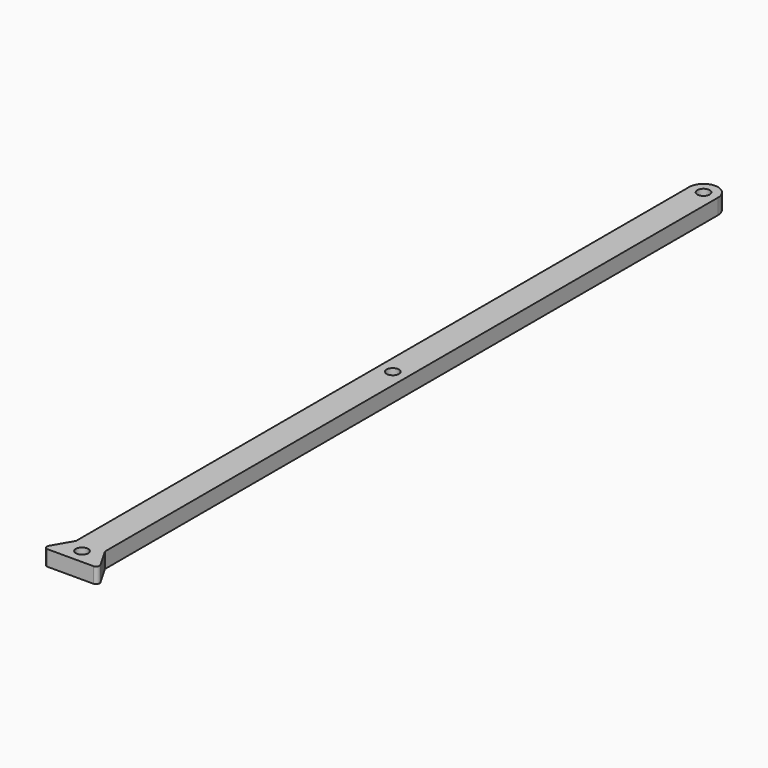
from build123d import *

# Parameters (mm, degrees)
F1_DEPTH = 3.41884
F2_R     = 0.762
F3_R     = 1.35255
F4_DEPTH = 3.41884


with BuildPart() as f1:
    # F0 (on Top) → F1 (new body)
    with BuildSketch(Plane.XY):
        with BuildLine():
            ThreePointArc((6.35, 0), (3.175, 3.175), (0, 0))
            Line((0, 0), (0, -169.139565))
            Line((0, -169.139565), (-3.174995, -174.638818))
            Line((-3.174995, -174.638818), (9.524995, -174.638818))
            Line((9.524995, -174.638818), (6.35, -169.139565))
            Line((6.35, -169.139565), (6.35, 0))
        make_face()
    extrude(amount=F1_DEPTH)

    # F2
    f2_edges = [f1.edges().sort_by_distance(p)[0] for p in [
        (9.524995, -174.638818, 1.70942),
        (-3.174995, -174.638818, 1.70942),
    ]]
    fillet(f2_edges, radius=F2_R)

    # F3 (on face) → F4 (cut, through all)
    with BuildSketch(Plane.XY.offset(3.41884)):
        with Locations((3.175, 0)):
            Circle(F3_R)
        with Locations((3.175, -85.731909)):
            Circle(F3_R)
        with Locations((3.175, -171.463818)):
            Circle(F3_R)
    extrude(amount=-F4_DEPTH, mode=Mode.SUBTRACT)


solid = f1.part
